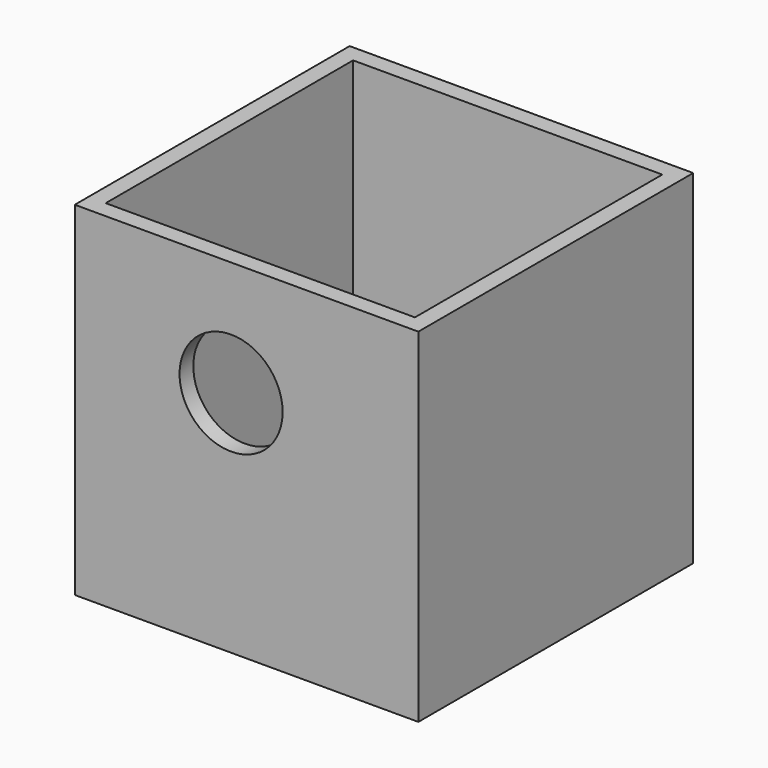
from build123d import *

# Parameters (mm, degrees)
F0_W     = 100
F0_H     = 100
F0_W_2   = 90
F0_H_2   = 90
F1_DEPTH = 100
F2_R     = 15
F3_DEPTH = 10
F4_R     = 15
F5_DEPTH = 25


with BuildPart() as f1:
    # F0 (on Top) → F1 (new body)
    with BuildSketch(Plane.XY):
        Rectangle(F0_W, F0_H)
        Rectangle(F0_W_2, F0_H_2, mode=Mode.SUBTRACT)
    extrude(amount=F1_DEPTH)

    # F2 (on face) → F3 (cut)
    with BuildSketch(Plane.XZ.offset(50)):
        with Locations((-4.887418, 68.32698)):
            Circle(F2_R)
    extrude(amount=F3_DEPTH, mode=Mode.SUBTRACT)

    # F4 (on face) → F5 (cut)
    with BuildSketch(Plane.XZ.offset(50)):
        with Locations((-4.508148, 66.540122)):
            Circle(F4_R)
        with Locations((-4.508148, 66.540122)):
            Circle(F4_R)
    extrude(amount=-F5_DEPTH, mode=Mode.SUBTRACT)


solid = f1.part
